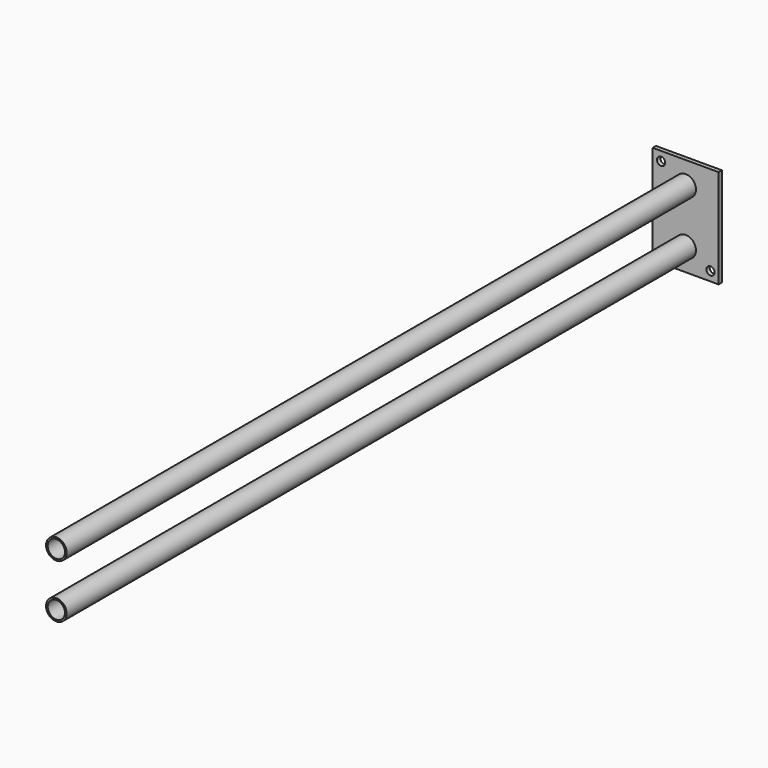
from build123d import *

# Parameters (mm, degrees)
F0_W     = 101.6
F0_H     = 152.4
F0_R     = 15.875
F0_R_2   = 6.35
F1_DEPTH = 6.35
F2_DEPTH = 1219.2
F3_T     = -2.54


with BuildPart() as f1:
    # F0 (on Front) → F1 (new body)
    with BuildSketch(Plane.XZ):
        with Locations((-2489.8389577866, 855.3545203808)):
            Rectangle(F0_W, F0_H)
        with Locations((-2489.8389577866, 814.0795203808)):
            Circle(F0_R, mode=Mode.SUBTRACT)
        with Locations((-2451.6389285668, 793.4423906328)):
            Circle(F0_R_2, mode=Mode.SUBTRACT)
        with Locations((-2527.7759553845, 917.5029841941)):
            Circle(F0_R_2, mode=Mode.SUBTRACT)
        with Locations((-2489.8389577866, 896.6295203808)):
            Circle(F0_R, mode=Mode.SUBTRACT)
    extrude(amount=F1_DEPTH)

    # F0 (on Front) → F2 (join)
    with BuildSketch(Plane.XZ):
        with Locations((-2489.8389577866, 896.6295203808)):
            Circle(F0_R)
        with Locations((-2489.8389577866, 814.0795203808)):
            Circle(F0_R)
    extrude(amount=F2_DEPTH)

    # F3
    f3_openings = [f1.faces().sort_by_distance(p)[0] for p in [
        (-2489.838958, -1219.2, 896.62952),
        (-2489.838958, -1219.2, 814.07952),
    ]]
    offset(amount=F3_T, openings=f3_openings, kind=Kind.INTERSECTION)


solid = f1.part
